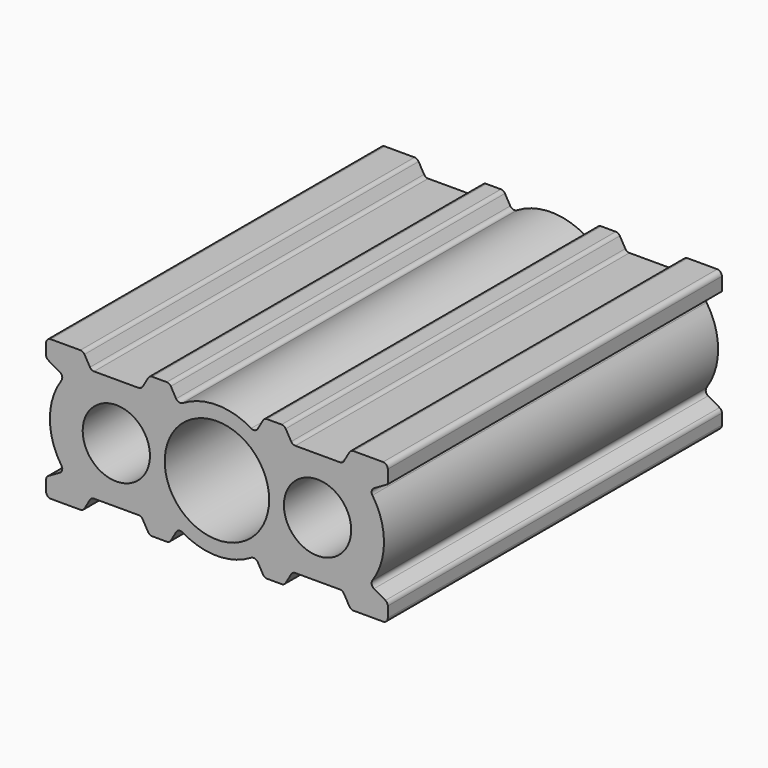
from build123d import *

# Parameters (mm, degrees)
F0_W     = 114.3
F0_H     = 139.7
F1_DEPTH = 46.99
F3_D     = 22.5044
F4_R     = 17.4625
F5_DEPTH = 133.35
F7_DEPTH = 139.701
F8_R     = 1.5875


with BuildPart() as f1:
    # F0 (on Top) → F1 (new body)
    with BuildSketch(Plane.XY):
        Rectangle(F0_W, F0_H)
    extrude(amount=F1_DEPTH)

    # F3 (through all)
    with Locations(Plane.XZ.offset(69.85)):
        with Locations((-33.655, 23.495), (33.655, 23.495)):
            Hole(F3_D / 2)

    # F4 (on face) → F5 (cut, through all)
    with BuildSketch(Plane.XZ.offset(69.85)):
        with Locations((0, 23.495)):
            Circle(F4_R)
    extrude(amount=-F5_DEPTH, mode=Mode.SUBTRACT)

    # F6 (on face) → F7 (cut, through all)
    with BuildSketch(Plane.XZ.offset(69.85)):
        with BuildLine():
            Line((-50.9913984587, 37.4018297423), (-57.15, 40.9575))
            Line((-57.15, 40.9575), (-57.15, 6.0325))
            Line((-57.15, 6.0325), (-50.9913984587, 9.5881702577))
            ThreePointArc((-50.9913984587, 9.5881702577), (-55.88, 23.495), (-50.9913984587, 37.4018297423))
        make_face()
        Polygon((-22.5425, 46.99), (-44.7675, 46.99), (-42.017869343, 42.2275), (-25.292130657, 42.2275), align=None)
        Polygon((-42.017869343, 4.7625), (-44.7675, 0), (-22.5425, 0), (-25.292130657, 4.7625), align=None)
        with BuildLine():
            Line((-12.800001213, 5.3260541322), (-15.875, 0))
            Line((-15.875, 0), (15.875, 0))
            Line((15.875, 0), (12.800001213, 5.3260541322))
            ThreePointArc((12.800001213, 5.3260541322), (0, 1.27), (-12.800001213, 5.3260541322))
        make_face()
        with BuildLine():
            Line((15.875, 46.99), (-15.875, 46.99))
            Line((-15.875, 46.99), (-12.800001213, 41.6639458678))
            ThreePointArc((-12.800001213, 41.6639458678), (0, 45.72), (12.800001213, 41.6639458678))
            Line((12.800001213, 41.6639458678), (15.875, 46.99))
        make_face()
        Polygon((44.7675, 46.99), (22.5425, 46.99), (25.292130657, 42.2275), (42.017869343, 42.2275), align=None)
        Polygon((25.292130657, 4.7625), (22.5425, 0), (44.7675, 0), (42.017869343, 4.7625), align=None)
        with BuildLine():
            Line((57.15, 6.0325), (57.15, 40.9575))
            Line((57.15, 40.9575), (50.9913984587, 37.4018297423))
            ThreePointArc((50.9913984587, 37.4018297423), (55.88, 23.495), (50.9913984587, 9.5881702577))
            Line((50.9913984587, 9.5881702577), (57.15, 6.0325))
        make_face()
    extrude(amount=-F7_DEPTH, mode=Mode.SUBTRACT)

    # F8
    f8_edges = [f1.edges().sort_by_distance(p)[0] for p in [
        (-57.15, 0, 0),
        (-44.7675, 0, 0),
        (-42.017869, 0, 4.7625),
        (-25.292131, 0, 4.7625),
        (-22.5425, 0, 0),
        (-15.875, 0, 0),
        (-12.800001, 0, 5.326054),
        (12.800001, 0, 5.326054),
        (15.875, 0, 0),
        (22.5425, 0, 0),
        (25.292131, 0, 4.7625),
        (42.017869, 0, 4.7625),
        (44.7675, 0, 0),
        (57.15, 0, 0),
        (57.15, 0, 6.0325),
        (50.991398, 0, 37.40183),
        (50.991398, 0, 9.58817),
        (57.15, 0, 46.99),
        (44.7675, 0, 46.99),
        (42.017869, 0, 42.2275),
        (25.292131, 0, 42.2275),
        (22.5425, 0, 46.99),
        (15.875, 0, 46.99),
        (12.800001, 0, 41.663946),
        (-12.800001, 0, 41.663946),
        (-15.875, 0, 46.99),
        (-22.5425, 0, 46.99),
        (-25.292131, 0, 42.2275),
        (-42.017869, 0, 42.2275),
        (-44.7675, 0, 46.99),
        (-57.15, 0, 46.99),
        (-57.15, 0, 40.9575),
        (-50.991398, 0, 37.40183),
        (-50.991398, 0, 9.58817),
        (-57.15, 0, 6.0325),
    ]]
    fillet(f8_edges, radius=F8_R)


solid = f1.part
